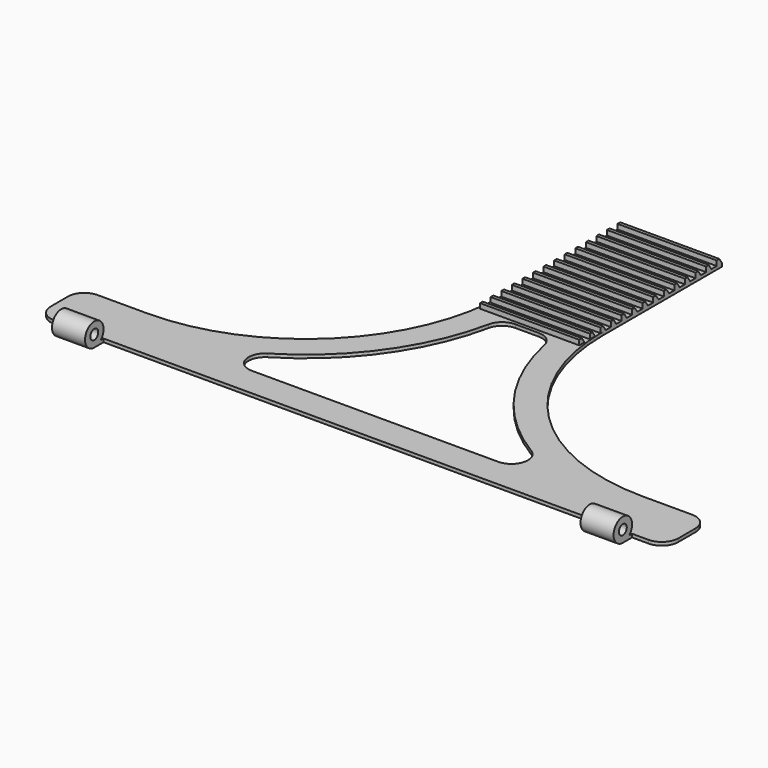
from build123d import *

# Parameters (mm, degrees)
F1_DEPTH  = 1
F2_R      = 3.5
F2_R_2    = 1.5
F3_DEPTH  = 190
F4_W      = 10
F4_H      = 20
F4_W_2    = 150
F5_DEPTH  = 128.501
F6_W      = 10
F6_H      = 5.9494897428
F6_W_2    = 9.9999999999
F6_W_3    = 150
F6_H_2    = 7
F7_DEPTH  = 1.001
F8_R      = 5
F9_R      = 60
F11_DEPTH = 30
F13_DEPTH = 1.001
F14_R     = 5


with BuildPart() as f1:
    # F0 (on Top) → F1 (new body)
    with BuildSketch(Plane.XY):
        Polygon((0, 20), (0, 0), (190, 0), (190, 20), (110, 20), (110, 125), (80, 125), (80, 20), align=None)
    extrude(amount=F1_DEPTH)

    # F2 (on face) → F3 (join, through all)
    with BuildSketch(Plane(origin=(0, 0, 0), x_dir=(0, -1, 0), z_dir=(-1, 0, 0))):
        with Locations((0, 3.5)):
            Circle(F2_R)
        with Locations((0, 3.5)):
            Circle(F2_R_2, mode=Mode.SUBTRACT)
    extrude(amount=-F3_DEPTH)

    # F4 (on face) → F5 (cut, through all)
    with BuildSketch(Plane(origin=(0, 125, 0), x_dir=(-1, 0, 0), z_dir=(0, 1, 0))):
        with Locations((-185, 11)):
            Rectangle(F4_W, F4_H)
        with Locations((-5, 11)):
            Rectangle(F4_W, F4_H)
        with Locations((-95, 11)):
            Rectangle(F4_W_2, F4_H)
    extrude(amount=-F5_DEPTH, mode=Mode.SUBTRACT)

    # F6 (on face) → F7 (cut, through all)
    with BuildSketch(Plane.XY.offset(1)):
        with Locations((5, 0.5252551286)):
            Rectangle(F6_W, F6_H)
        with Locations((185.0000000001, 0.5252551286)):
            Rectangle(F6_W_2, F6_H)
        with Locations((95, 0)):
            Rectangle(F6_W_3, F6_H_2)
    extrude(amount=-F7_DEPTH, mode=Mode.SUBTRACT)

    # F8
    f8_edges = [f1.edges().sort_by_distance(p)[0] for p in [
        (0, 3.5, 0.5),
        (0, 20, 0.5),
        (190, 3.5, 0.5),
        (190, 20, 0.5),
    ]]
    fillet(f8_edges, radius=F8_R)

    # F9
    f9_edges = [f1.edges().sort_by_distance(p)[0] for p in [
        (80, 20, 0.5),
        (110, 20, 0.5),
    ]]
    fillet(f9_edges, radius=F9_R)

    # F10 (on face) → F11 (join, through all)
    with BuildSketch(Plane(origin=(80, 0, 0), x_dir=(0, -1, 0), z_dir=(-1, 0, 0))):
        Polygon((-124, 2.5), (-125, 1), (-125, 0), (-80, 0), (-69, 1), (-71, 1), (-71, 2.5), (-72, 2.5), (-73, 1), (-75, 1), (-75, 2.5), (-76, 2.5), (-77, 1), (-79, 1), (-79, 2.5), (-80, 2.5), (-81, 1), (-83, 1), (-83, 2.5), (-84, 2.5), (-85, 1), (-87, 1), (-87, 2.5), (-88, 2.5), (-89, 1), (-91, 1), (-91, 2.5), (-92, 2.5), (-93, 1), (-95, 1), (-95, 2.5), (-96, 2.5), (-97, 1), (-99, 1), (-99, 2.5), (-100, 2.5), (-101, 1), (-103, 1), (-103, 2.5), (-104, 2.5), (-105, 1), (-107, 1), (-107, 2.5), (-108, 2.5), (-109, 1), (-111, 1), (-111, 2.5), (-112, 2.5), (-113, 1), (-115, 1), (-115, 2.5), (-116, 2.5), (-117, 1), (-119, 1), (-119, 2.5), (-120, 2.5), (-121, 1), (-123, 1), (-123, 2.5), align=None)
    extrude(amount=-F11_DEPTH)

    # F12 (on face) → F13 (cut, through all)
    with BuildSketch(Plane.XY.offset(1)):
        with BuildLine():
            ThreePointArc((161.7689611834, 12.5), (122.5520004396, 31.2897614693), (102.7393131168, 70))
            Line((102.7393131168, 70), (87.2606868832, 70))
            ThreePointArc((87.2606868832, 70), (67.4479995604, 31.2897614693), (28.2310388166, 12.5))
            Line((28.2310388166, 12.5), (161.7689611834, 12.5))
        make_face()
    extrude(amount=-F13_DEPTH, mode=Mode.SUBTRACT)

    # F14
    f14_edges = [f1.edges().sort_by_distance(p)[0] for p in [
        (28.231039, 12.5, 0.5),
        (161.768961, 12.5, 0.5),
        (87.260687, 70, 0.5),
        (102.739313, 70, 0.5),
    ]]
    fillet(f14_edges, radius=F14_R)


solid = f1.part
